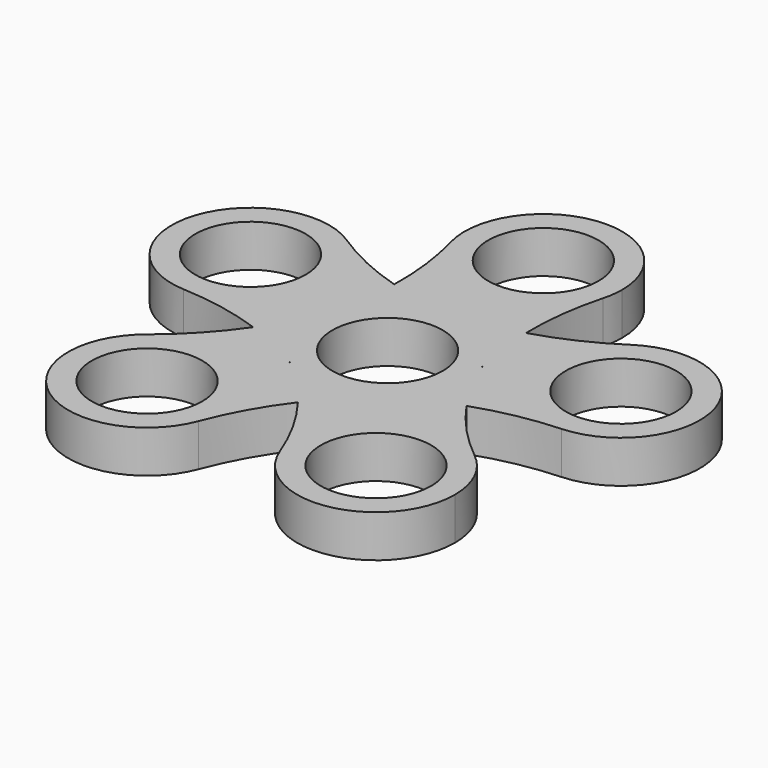
from build123d import *

# Parameters (mm, degrees)
F0_R     = 11.2522
F1_DEPTH = 8.636


with BuildPart() as f1:
    # F0 (on Top) → F1 (new body)
    with BuildSketch(Plane.XY):
        with BuildLine():
            ThreePointArc((10.0592163849, -12.5427541219), (14.4955615296, -6.9560916599), (16.0782, 0))
            ThreePointArc((16.0782, 0), (15.9356487874, 2.1362614454), (15.5105229014, 4.2346422002))
            ThreePointArc((15.5105229014, 4.2346422002), (15.2912768803, 4.968437039), (15.0373368529, 5.6909591117))
            ThreePointArc((15.0373368529, 5.6909591117), (9.4505288434, 13.007537039), (0.7656311095, 16.0599602815))
            ThreePointArc((0.7656311095, 16.0599602815), (0, 16.0782), (-0.7656311095, 16.0599602815))
            ThreePointArc((-0.7656311095, 16.0599602815), (-9.4505288434, 13.007537039), (-15.0373368529, 5.6909591117))
            ThreePointArc((-15.0373368529, 5.6909591117), (-15.2912768803, 4.968437039), (-15.5105229014, 4.2346422002))
            ThreePointArc((-15.5105229014, 4.2346422002), (-15.2912768803, -4.968437039), (-10.0592163849, -12.5427541219))
            ThreePointArc((-10.0592163849, -12.5427541219), (-9.4505288434, -13.007537039), (-8.8203992269, -13.4428074716))
            ThreePointArc((-8.8203992269, -13.4428074716), (0, -16.0782), (8.8203992269, -13.4428074716))
            ThreePointArc((8.8203992269, -13.4428074716), (9.4505288434, -13.007537039), (10.0592163849, -12.5427541219))
        make_face()
        Circle(F0_R, mode=Mode.SUBTRACT)
        with BuildLine():
            ThreePointArc((0.7656311095, 16.0599602815), (9.4505288434, 13.007537039), (15.0373368529, 5.6909591117))
            ThreePointArc((15.0373368529, 5.6909591117), (15.1741938942, 5.3328401038), (15.3133632508, 4.9756133358))
            ThreePointArc((15.3133632508, 4.9756133358), (13.983030327, 11.6776288921), (13.4324519852, 18.4881840601))
            ThreePointArc((13.4324519852, 18.4881840601), (6.7850910488, 16.9072378917), (0, 16.1014229843))
            ThreePointArc((0, 16.1014229843), (0.3827485418, 16.079454203), (0.7656311095, 16.0599602815))
        make_face()
        with BuildLine():
            ThreePointArc((15.5105229014, 4.2346422002), (15.9356487874, 2.1362614454), (16.0782, 0))
            ThreePointArc((16.0782, 0), (14.4955615296, -6.9560916599), (10.0592163849, -12.5427541219))
            ThreePointArc((10.0592163849, -12.5427541219), (9.7609161203, -12.7835777623), (9.4641789711, -13.0263248279))
            ThreePointArc((9.4641789711, -13.0263248279), (15.4270790567, -9.6900663284), (21.7341638644, -7.0618579207))
            ThreePointArc((21.7341638644, -7.0618579207), (18.176447212, -1.2283812192), (15.3133632508, 4.9756133358))
            ThreePointArc((15.3133632508, 4.9756133358), (15.4107455022, 4.6048091142), (15.5105229014, 4.2346422002))
        make_face()
        with BuildLine():
            ThreePointArc((13.4324519852, 18.4881840601), (13.983030327, 11.6776288921), (15.3133632508, 4.9756133358))
            ThreePointArc((15.3133632508, 4.9756133358), (18.176447212, -1.2283812192), (21.7341638644, -7.0618579207))
            ThreePointArc((21.7341638644, -7.0618579207), (30.0130318433, -4.8169203604), (38.5291644649, -3.789844495))
            ThreePointArc((38.5291644649, -3.789844495), (22.4722564751, 7.3016787476), (28.9431341285, 25.7129232581))
            ThreePointArc((28.9431341285, 25.7129232581), (21.4497380646, 21.5381879262), (13.4324519852, 18.4881840601))
        make_face()
        with BuildLine():
            ThreePointArc((53.8417333554, 12.2701157865), (45.4020008846, 26.4179894446), (28.9431341285, 25.7129232581))
            ThreePointArc((28.9431341285, 25.7129232581), (22.4722564751, 7.3016787476), (38.5291644649, -3.789844495))
            ThreePointArc((38.5291644649, -3.789844495), (49.4000810682, 1.1751046298), (53.8417333554, 12.2701157865))
        make_face()
        with Locations((37.7635333554, 12.2701157865)):
            Circle(F0_R, mode=Mode.SUBTRACT)
        with BuildLine():
            ThreePointArc((21.7341638644, -7.0618579207), (15.4270790567, -9.6900663284), (9.4641789711, -13.0263248279))
            ThreePointArc((9.4641789711, -13.0263248279), (4.4485711229, -17.6664192363), (0, -22.8526522788))
            ThreePointArc((0, -22.8526522788), (4.693373395, -30.0325997603), (8.301810296, -37.8145392867))
            ThreePointArc((8.301810296, -37.8145392867), (13.8886183055, -19.1160431361), (33.3983635338, -19.5808260531))
            ThreePointArc((33.3983635338, -19.5808260531), (27.1123675633, -13.7442470619), (21.7341638644, -7.0618579207))
        make_face()
        with BuildLine():
            ThreePointArc((9.4641789711, -13.0263248279), (9.1416159705, -13.2335256587), (8.8203992269, -13.4428074716))
            ThreePointArc((8.8203992269, -13.4428074716), (0, -16.0782), (-8.8203992269, -13.4428074716))
            ThreePointArc((-8.8203992269, -13.4428074716), (-9.1416159705, -13.2335256587), (-9.4641789711, -13.0263248279))
            ThreePointArc((-9.4641789711, -13.0263248279), (-4.4485711229, -17.6664192363), (0, -22.8526522788))
            ThreePointArc((0, -22.8526522788), (4.4485711229, -17.6664192363), (9.4641789711, -13.0263248279))
        make_face()
        with BuildLine():
            ThreePointArc((-8.301810296, -37.8145392867), (-4.693373395, -30.0325997603), (0, -22.8526522788))
            ThreePointArc((0, -22.8526522788), (-4.4485711229, -17.6664192363), (-9.4641789711, -13.0263248279))
            ThreePointArc((-9.4641789711, -13.0263248279), (-15.4270790567, -9.6900663284), (-21.7341638644, -7.0618579207))
            ThreePointArc((-21.7341638644, -7.0618579207), (-27.1123675633, -13.7442470619), (-33.3983635338, -19.5808260531))
            ThreePointArc((-33.3983635338, -19.5808260531), (-16.3830554891, -17.6280186454), (-7.2609471489, -32.123580175))
            ThreePointArc((-7.2609471489, -32.123580175), (-7.5233034372, -35.0162610986), (-8.301810296, -37.8145392867))
        make_face()
        with BuildLine():
            ThreePointArc((-33.3983635338, -19.5808260531), (-32.7896759923, -45.131117214), (-8.301810296, -37.8145392867))
            ThreePointArc((-8.301810296, -37.8145392867), (-7.5233034372, -35.0162610986), (-7.2609471489, -32.123580175))
            ThreePointArc((-7.2609471489, -32.123580175), (-16.3830554891, -17.6280186454), (-33.3983635338, -19.5808260531))
        make_face()
        with Locations((-23.3391471489, -32.123580175)):
            Circle(F0_R, mode=Mode.SUBTRACT)
        with BuildLine():
            ThreePointArc((-9.4641789711, -13.0263248279), (-9.7609161203, -12.7835777623), (-10.0592163849, -12.5427541219))
            ThreePointArc((-10.0592163849, -12.5427541219), (-15.2912768803, -4.968437039), (-15.5105229014, 4.2346422002))
            ThreePointArc((-15.5105229014, 4.2346422002), (-15.4107455022, 4.6048091142), (-15.3133632508, 4.9756133358))
            ThreePointArc((-15.3133632508, 4.9756133358), (-18.176447212, -1.2283812192), (-21.7341638644, -7.0618579207))
            ThreePointArc((-21.7341638644, -7.0618579207), (-15.4270790567, -9.6900663284), (-9.4641789711, -13.0263248279))
        make_face()
        with BuildLine():
            ThreePointArc((39.4173471489, -32.123580175), (37.8347086786, -25.1674885151), (33.3983635338, -19.5808260531))
            ThreePointArc((33.3983635338, -19.5808260531), (13.8886183055, -19.1160431361), (8.301810296, -37.8145392867))
            ThreePointArc((8.301810296, -37.8145392867), (26.2318280725, -47.9394238868), (39.4173471489, -32.123580175))
        make_face()
        with Locations((23.3391471489, -32.123580175)):
            Circle(F0_R, mode=Mode.SUBTRACT)
        with BuildLine():
            ThreePointArc((-21.6853333554, 12.2701157865), (-23.6156596973, 19.9085833157), (-28.9431341285, 25.7129232581))
            ThreePointArc((-28.9431341285, 25.7129232581), (-53.0548102357, 17.2385528255), (-38.5291644649, -3.789844495))
            ThreePointArc((-38.5291644649, -3.789844495), (-26.6685221987, 0.6335680737), (-21.6853333554, 12.2701157865))
        make_face()
        with Locations((-37.7635333554, 12.2701157865)):
            Circle(F0_R, mode=Mode.SUBTRACT)
        with BuildLine():
            ThreePointArc((-15.3133632508, 4.9756133358), (-13.983030327, 11.6776288921), (-13.4324519852, 18.4881840601))
            ThreePointArc((-13.4324519852, 18.4881840601), (-21.4497380646, 21.5381879262), (-28.9431341285, 25.7129232581))
            ThreePointArc((-28.9431341285, 25.7129232581), (-23.6156596973, 19.9085833157), (-21.6853333554, 12.2701157865))
            ThreePointArc((-21.6853333554, 12.2701157865), (-26.6685221987, 0.6335680737), (-38.5291644649, -3.789844495))
            ThreePointArc((-38.5291644649, -3.789844495), (-30.0130318433, -4.8169203604), (-21.7341638644, -7.0618579207))
            ThreePointArc((-21.7341638644, -7.0618579207), (-18.176447212, -1.2283812192), (-15.3133632508, 4.9756133358))
        make_face()
        with BuildLine():
            ThreePointArc((-15.0373368529, 5.6909591117), (-9.4505288434, 13.007537039), (-0.7656311095, 16.0599602815))
            ThreePointArc((-0.7656311095, 16.0599602815), (-0.3827485418, 16.079454203), (0, 16.1014229843))
            ThreePointArc((0, 16.1014229843), (-6.7850910488, 16.9072378917), (-13.4324519852, 18.4881840601))
            ThreePointArc((-13.4324519852, 18.4881840601), (-13.983030327, 11.6776288921), (-15.3133632508, 4.9756133358))
            ThreePointArc((-15.3133632508, 4.9756133358), (-15.1741938942, 5.3328401038), (-15.0373368529, 5.6909591117))
        make_face()
        with BuildLine():
            ThreePointArc((0, 16.1014229843), (6.7850910488, 16.9072378917), (13.4324519852, 18.4881840601))
            ThreePointArc((13.4324519852, 18.4881840601), (13.8557003896, 27.0555792564), (15.5105229014, 35.4722865767))
            ThreePointArc((15.5105229014, 35.4722865767), (0, 23.628728777), (-15.5105229014, 35.4722865767))
            ThreePointArc((-15.5105229014, 35.4722865767), (-13.8557003896, 27.0555792564), (-13.4324519852, 18.4881840601))
            ThreePointArc((-13.4324519852, 18.4881840601), (-6.7850910488, 16.9072378917), (0, 16.1014229843))
        make_face()
        with BuildLine():
            ThreePointArc((-15.5105229014, 35.4722865767), (0, 23.628728777), (15.5105229014, 35.4722865767))
            ThreePointArc((15.5105229014, 35.4722865767), (15.9356487874, 37.5706673316), (16.0782, 39.706928777))
            ThreePointArc((16.0782, 39.706928777), (-2.1362614454, 55.6425775644), (-15.5105229014, 35.4722865767))
        make_face()
        with Locations((0, 39.706928777)):
            Circle(F0_R, mode=Mode.SUBTRACT)
    extrude(amount=F1_DEPTH)


solid = f1.part
